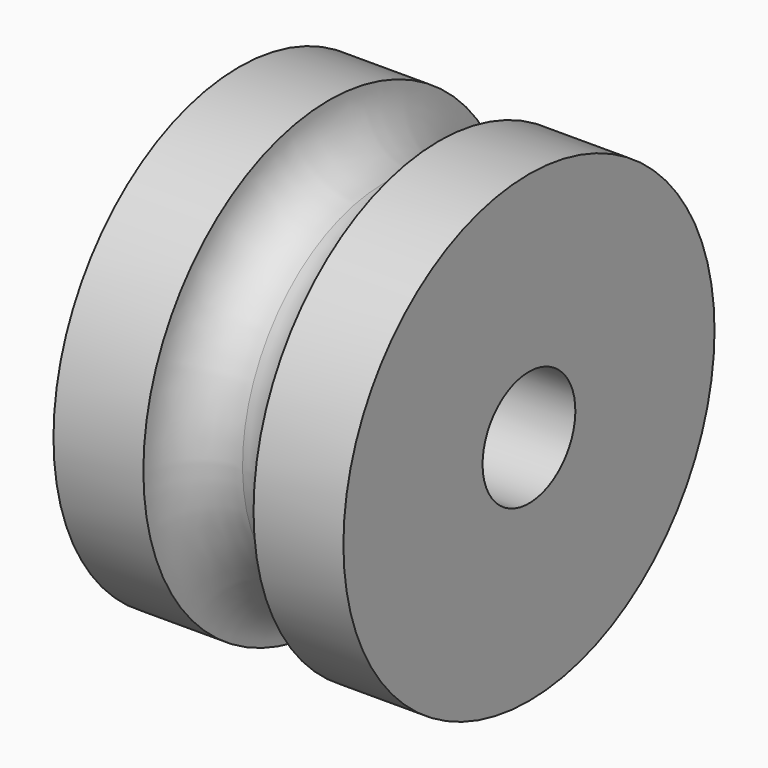
from build123d import *


with BuildPart() as f1:
    # F0 (on Front) → F1 (revolve)
    with BuildSketch(Plane.XZ):
        with BuildLine():
            Line((-9.5, 40), (-25, 40))
            Line((-25, 40), (-25, 10))
            Line((-25, 10), (0, 10))
            Line((0, 10), (0, 30.5))
            ThreePointArc((0, 30.5), (-6.717514, 33.282486), (-9.5, 40))
        make_face()
        with BuildLine():
            ThreePointArc((9.5, 40), (6.717514, 33.282486), (0, 30.5))
            Line((0, 30.5), (0, 10))
            Line((0, 10), (25, 10))
            Line((25, 10), (25, 40))
            Line((25, 40), (9.5, 40))
        make_face()
    revolve(axis=Axis((-12.5, 0, 0), (1, 0, 0)))


solid = f1.part
